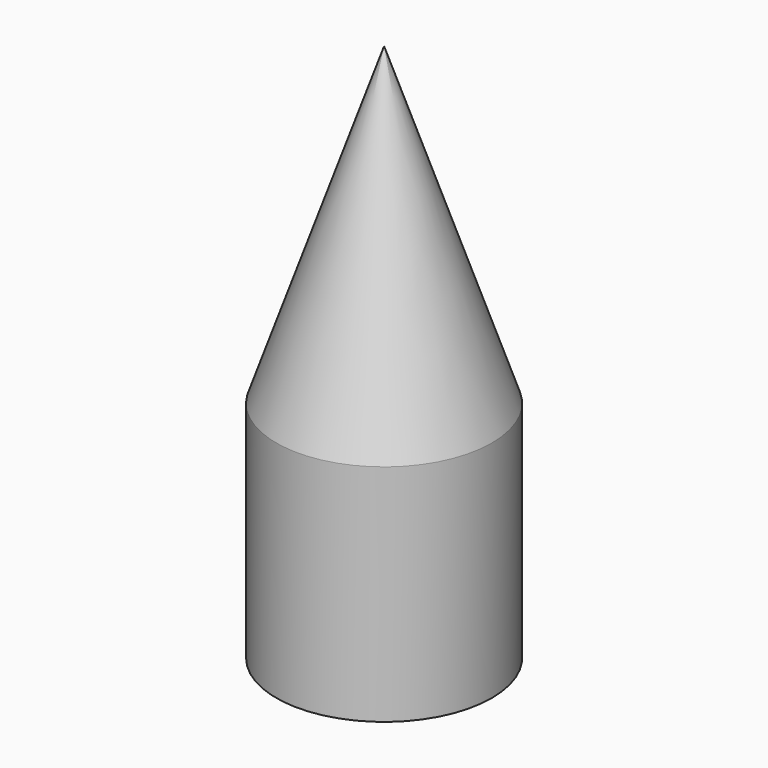
from build123d import *

# Parameters (mm, degrees)
F0_R     = 25.4
F1_DEPTH = 127


with BuildPart() as f1:
    # F0 (on Top) → F1 (new body)
    with BuildSketch(Plane.XY):
        Circle(F0_R)
    extrude(amount=F1_DEPTH)

    # F2 (on Right) → F3 (revolve, cut)
    with BuildSketch(Plane.YZ):
        Polygon((32.905228, 127), (2.5e-05, 127), (30.18061, 38.973275), align=None)
    revolve(axis=Axis((0, 0, 0), (0, 0, -1)), mode=Mode.SUBTRACT)


solid = f1.part
